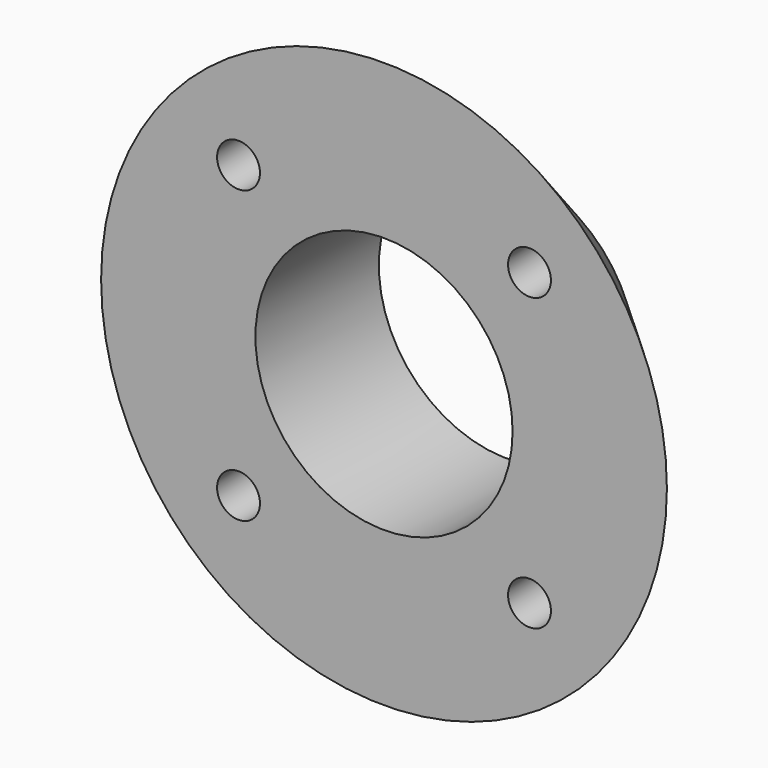
from build123d import *

# Parameters (mm, degrees)
SKETCH001_R  = 1.25
POCKET_DEPTH = 3


with BuildPart() as part:
    # Sketch → Revolution (revolve)
    with BuildSketch(Plane.XY):
        Polygon((7.5, 0), (16.5, 0), (7.5, 9), align=None)
    revolve(axis=Axis((0, 0, 0), (0, 1, 0)))

    # Sketch001 (on Face1 of Revolution) → Pocket (cut)
    with BuildSketch(Plane.XZ):
        with Locations((-8.485281, 8.485281)):
            Circle(SKETCH001_R)
        with Locations((8.485281, 8.485281)):
            Circle(SKETCH001_R)
        with Locations((8.485281, -8.485281)):
            Circle(SKETCH001_R)
        with Locations((-8.485281, -8.485281)):
            Circle(SKETCH001_R)
    extrude(amount=-POCKET_DEPTH, mode=Mode.SUBTRACT)


solid = part.part
